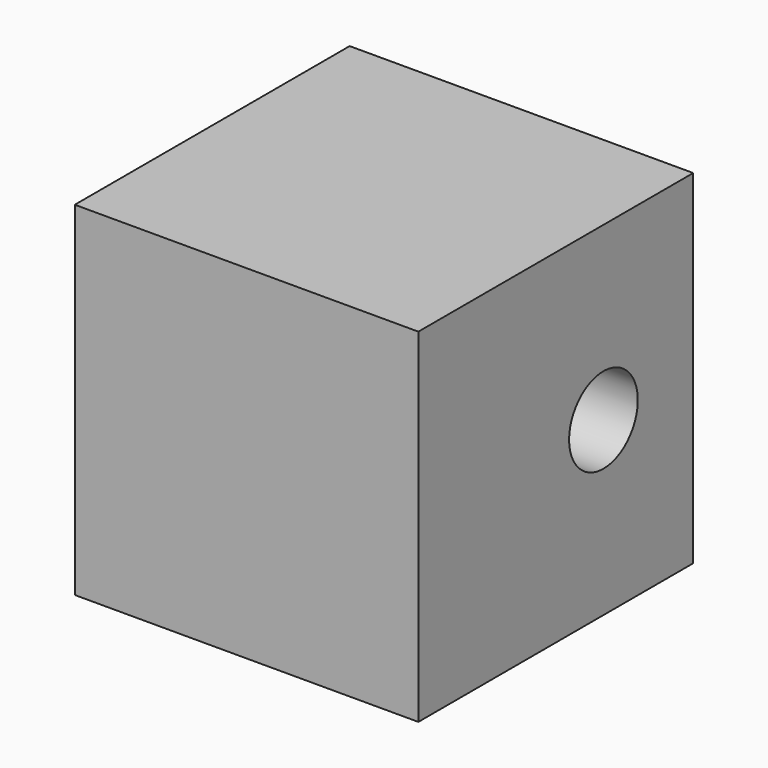
from build123d import *

# Parameters (mm, degrees)
F0_W     = 25.4
F0_H     = 25.4
F1_DEPTH = 25.4
F3_D     = 6.35


with BuildPart() as f1:
    # F0 (on Front) → F1 (new body)
    with BuildSketch(Plane.XZ):
        with Locations((12.7, 12.7)):
            Rectangle(F0_W, F0_H)
    extrude(amount=F1_DEPTH)

    # F3 (through all)
    with Locations(Plane.YZ.offset(25.4)):
        with Locations((-8.295741, 12.7)):
            Hole(F3_D / 2)


solid = f1.part
